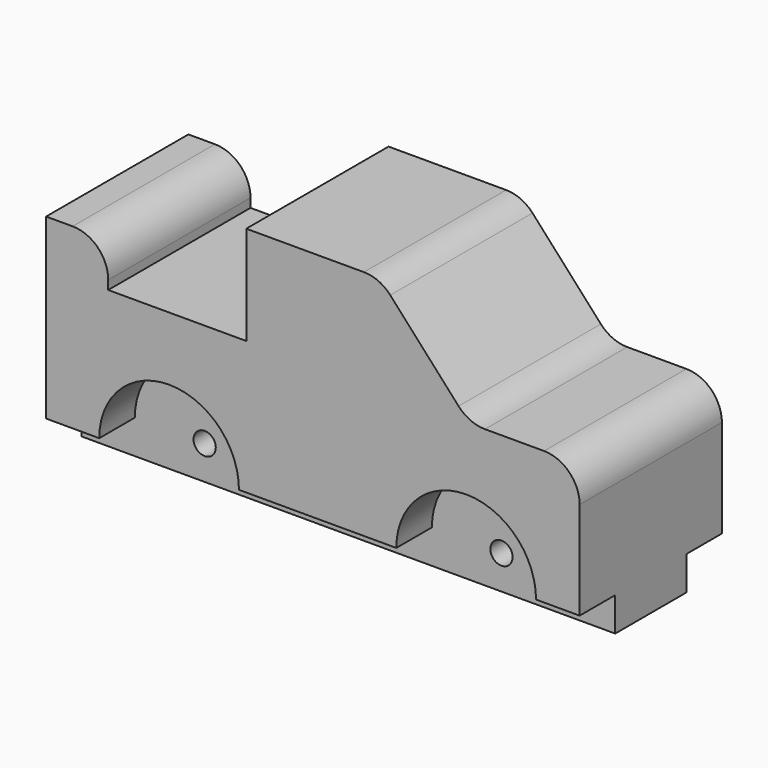
from build123d import *

# Parameters (mm, degrees)
F1_DEPTH = 6.35
F3_DEPTH = 12.7
F5_DEPTH = 6.35
F6_R     = 5.08
F7_R     = 5.08
F8_R     = 5.08


with BuildPart() as f1:
    # F0 (on Front) → F1 (new body)
    with BuildSketch(Plane.XZ):
        with BuildLine():
            Line((-29.225341, 25.4), (-38.1, 25.4))
            Line((-38.1, 25.4), (-38.1, 0))
            Line((-38.1, 0), (-30.507866, 0))
            ThreePointArc((-30.507866, 0), (-20.531018, 9.976848), (-10.554171, 0))
            Line((-10.554171, 0), (11.91838, 0))
            ThreePointArc((11.91838, 0), (21.895228, 9.976848), (31.872075, 0))
            Line((31.872075, 0), (38.1, 0))
            Line((38.1, 0), (38.1, 19.05))
            Line((38.1, 19.05), (22.325266, 19.05))
            Line((22.325266, 19.05), (9.537391, 33.169942))
            Line((9.537391, 33.169942), (-9.512609, 33.169942))
            Line((-9.512609, 33.169942), (-9.512609, 19.05))
            Line((-9.512609, 19.05), (-29.225341, 19.05))
            Line((-29.225341, 19.05), (-29.225341, 25.4))
        make_face()
    extrude(amount=F1_DEPTH)

    # F2 (on face) → F3 (join)
    with BuildSketch(Plane.XZ.offset(6.35)):
        with BuildLine():
            Line((-29.225341, 25.4), (-38.1, 25.4))
            Line((-38.1, 25.4), (-38.1, 0))
            Line((-38.1, 0), (-22.118518, 0))
            ThreePointArc((-22.118518, 0), (-20.531018, 1.5875), (-18.943518, 0))
            Line((-18.943518, 0), (20.268538, 0))
            ThreePointArc((20.268538, 0), (21.856038, 1.5875), (23.443538, 0))
            Line((23.443538, 0), (38.1, 0))
            Line((38.1, 0), (38.1, 19.05))
            Line((38.1, 19.05), (22.325266, 19.05))
            Line((22.325266, 19.05), (9.537391, 33.169942))
            Line((9.537391, 33.169942), (-9.512609, 33.169942))
            Line((-9.512609, 33.169942), (-9.512609, 19.05))
            Line((-9.512609, 19.05), (-29.225341, 19.05))
            Line((-29.225341, 19.05), (-29.225341, 25.4))
        make_face()
        with BuildLine():
            Line((-22.118518, 0), (-38.1, 0))
            Line((-38.1, 0), (-38.1, -4.83568))
            Line((-38.1, -4.83568), (38.1, -4.83568))
            Line((38.1, -4.83568), (38.1, 0))
            Line((38.1, 0), (23.443538, 0))
            ThreePointArc((23.443538, 0), (21.856038, -1.5875), (20.268538, 0))
            Line((20.268538, 0), (-18.943518, 0))
            ThreePointArc((-18.943518, 0), (-20.531018, -1.5875), (-22.118518, 0))
        make_face()
    extrude(amount=F3_DEPTH)

    # F4 (on face) → F5 (join)
    with BuildSketch(Plane.XZ.offset(19.05)):
        with BuildLine():
            Line((-29.225341, 25.4), (-38.1, 25.4))
            Line((-38.1, 25.4), (-38.1, 0))
            Line((-38.1, 0), (-30.507866, 0))
            ThreePointArc((-30.507866, 0), (-20.531018, 9.976848), (-10.554171, 0))
            Line((-10.554171, 0), (11.91838, 0))
            ThreePointArc((11.91838, 0), (21.895228, 9.976848), (31.872075, 0))
            Line((31.872075, 0), (38.1, 0))
            Line((38.1, 0), (38.1, 19.05))
            Line((38.1, 19.05), (22.325266, 19.05))
            Line((22.325266, 19.05), (9.537391, 33.169942))
            Line((9.537391, 33.169942), (-9.512609, 33.169942))
            Line((-9.512609, 33.169942), (-9.512609, 19.05))
            Line((-9.512609, 19.05), (-29.225341, 19.05))
            Line((-29.225341, 19.05), (-29.225341, 25.4))
        make_face()
    extrude(amount=F5_DEPTH)

    # F6
    f6_edges = [f1.edges().sort_by_distance(p)[0] for p in [
        (-29.225341, -12.7, 25.4),
    ]]
    fillet(f6_edges, radius=F6_R)

    # F7
    f7_edges = [f1.edges().sort_by_distance(p)[0] for p in [
        (9.537391, -12.7, 33.169942),
    ]]
    fillet(f7_edges, radius=F7_R)

    # F8
    f8_edges = [f1.edges().sort_by_distance(p)[0] for p in [
        (22.325266, -12.7, 19.05),
        (38.1, -12.7, 19.05),
    ]]
    fillet(f8_edges, radius=F8_R)


solid = f1.part
